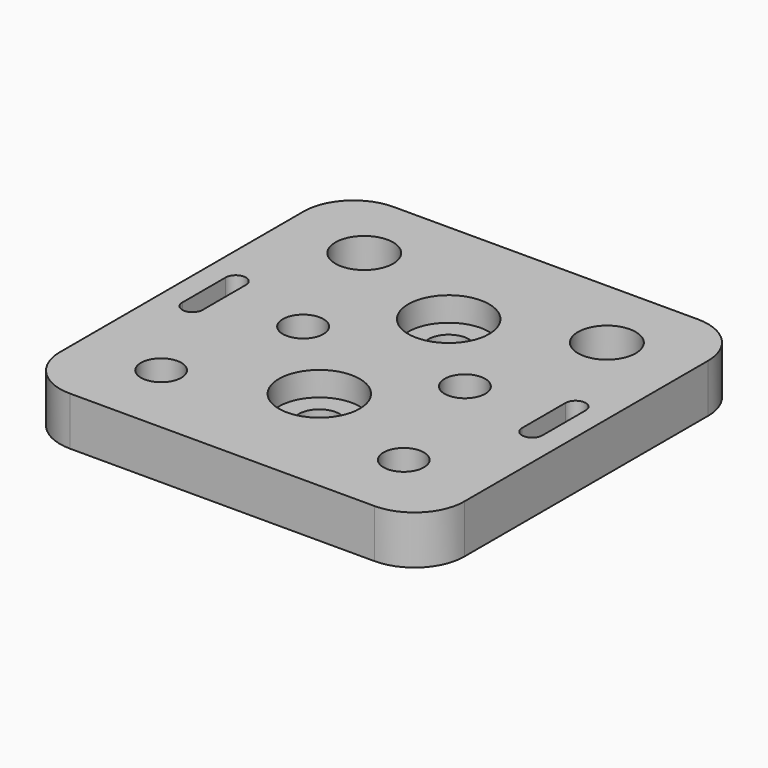
from build123d import *

# Parameters (mm, degrees)
F0_R     = 2.5
F0_R_2   = 2.51
F0_R_3   = 3.57
F1_DEPTH = 6
F2_R     = 5
F3_DEPTH = 3


with BuildPart() as f1:
    # F0 (on Top) → F1 (new body)
    with BuildSketch(Plane.XY):
        with BuildLine():
            Line((18.83, 25), (-18.83, 25))
            ThreePointArc((-18.83, 25), (-23.192849, 23.192849), (-25, 18.83))
            Line((-25, 18.83), (-25, -18.83))
            ThreePointArc((-25, -18.83), (-23.192849, -23.192849), (-18.83, -25))
            Line((-18.83, -25), (18.83, -25))
            ThreePointArc((18.83, -25), (23.192849, -23.192849), (25, -18.83))
            Line((25, -18.83), (25, 18.83))
            ThreePointArc((25, 18.83), (23.192849, 23.192849), (18.83, 25))
        make_face()
        with Locations((-15, -15.7)):
            Circle(F0_R, mode=Mode.SUBTRACT)
        with Locations((15, -15.7)):
            Circle(F0_R, mode=Mode.SUBTRACT)
        with Locations((0, -10)):
            Circle(F0_R_2, mode=Mode.SUBTRACT)
        with BuildLine():
            Line((-22.255, -3.35), (-22.255, 3.35))
            ThreePointArc((-22.255, 3.35), (-21.005, 4.6), (-19.755, 3.35))
            Line((-19.755, 3.35), (-19.755, -3.35))
            ThreePointArc((-19.755, -3.35), (-21.005, -4.6), (-22.255, -3.35))
        make_face(mode=Mode.SUBTRACT)
        with Locations((-10, 0)):
            Circle(F0_R_2, mode=Mode.SUBTRACT)
        with Locations((-15, 15.7)):
            Circle(F0_R_3, mode=Mode.SUBTRACT)
        with Locations((10, 0)):
            Circle(F0_R_2, mode=Mode.SUBTRACT)
        with Locations((0, 10)):
            Circle(F0_R_2, mode=Mode.SUBTRACT)
        with BuildLine():
            Line((19.755, -3.35), (19.755, 3.35))
            ThreePointArc((19.755, 3.35), (21.005, 4.6), (22.255, 3.35))
            Line((22.255, 3.35), (22.255, -3.35))
            ThreePointArc((22.255, -3.35), (21.005, -4.6), (19.755, -3.35))
        make_face(mode=Mode.SUBTRACT)
        with Locations((15, 15.7)):
            Circle(F0_R_3, mode=Mode.SUBTRACT)
    extrude(amount=F1_DEPTH)

    # F2 (on face) → F3 (cut)
    with BuildSketch(Plane.XY.offset(6)):
        with Locations((0, 10)):
            Circle(F2_R)
        with Locations((0, -10)):
            Circle(F2_R)
    extrude(amount=-F3_DEPTH, mode=Mode.SUBTRACT)


solid = f1.part
